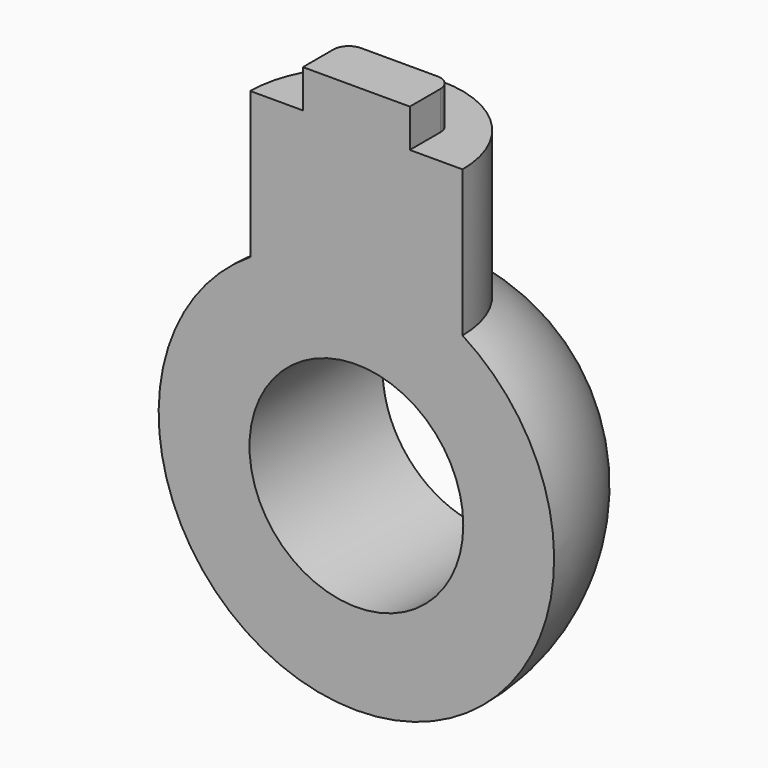
from build123d import *

# Parameters (mm, degrees)
SKETCH004_W      = 30
SKETCH004_H      = 50
EXTRUDE003_DEPTH = 20
SKETCH002_R      = 6.95
EXTRUDE001_DEPTH = 12.5
SKETCH001_R      = 7
EXTRUDE_DEPTH    = 15
SKETCH003_W      = 7
SKETCH003_H      = 7
EXTRUDE002_DEPTH = 2.5
FILLET_R         = 1


with BuildPart() as extrude003:
    # Sketch004 → Extrude003 (new body)
    with BuildSketch(Plane.XZ):
        Rectangle(SKETCH004_W, SKETCH004_H)
    extrude(amount=EXTRUDE003_DEPTH)


with BuildPart() as extrude001:
    # Sketch002 → Extrude001 (new body)
    with BuildSketch(Plane.XY.offset(8)):
        Circle(SKETCH002_R)
    extrude(amount=EXTRUDE001_DEPTH)


with BuildPart() as extrude_body:
    # Sketch001 → Extrude (new body, symmetric)
    with BuildSketch(Plane.XZ):
        Circle(SKETCH001_R)
    extrude(amount=EXTRUDE_DEPTH, both=True)


with BuildPart() as cut:
    # Sketch → Revolve (revolve)
    with BuildSketch(Plane.XZ):
        with BuildLine():
            ThreePointArc((0, -12.95), (12.95, 0), (0, 12.95))
            Line((0, 12.95), (0, -12.95))
        make_face()
    revolve(axis=Axis((0, 0, 0), (0, 0, 1)))

    # Cut: cut Extrude body
    add(extrude_body.part, mode=Mode.SUBTRACT)


with BuildPart() as cut001:
    # Sketch003 (on Face3 of Extrude001) → Extrude002 (new body)
    with BuildSketch(Plane.XY.offset(20.5)):
        Rectangle(SKETCH003_W, SKETCH003_H)
    extrude(amount=EXTRUDE002_DEPTH)

    # Fillet
    fillet_edges = [cut001.edges().sort_by_distance(p)[0] for p in [
        (-3.5, -3.5, 21.75),
        (3.5, -3.5, 21.75),
        (3.5, 3.5, 21.75),
        (-3.5, 3.5, 21.75),
    ]]
    fillet(fillet_edges, radius=FILLET_R)

    # Fusion: union Extrude001, Cut
    add(extrude001.part)
    add(cut.part)

    # Cut001: cut Extrude003
    add(extrude003.part, mode=Mode.SUBTRACT)


solid = cut001.part
